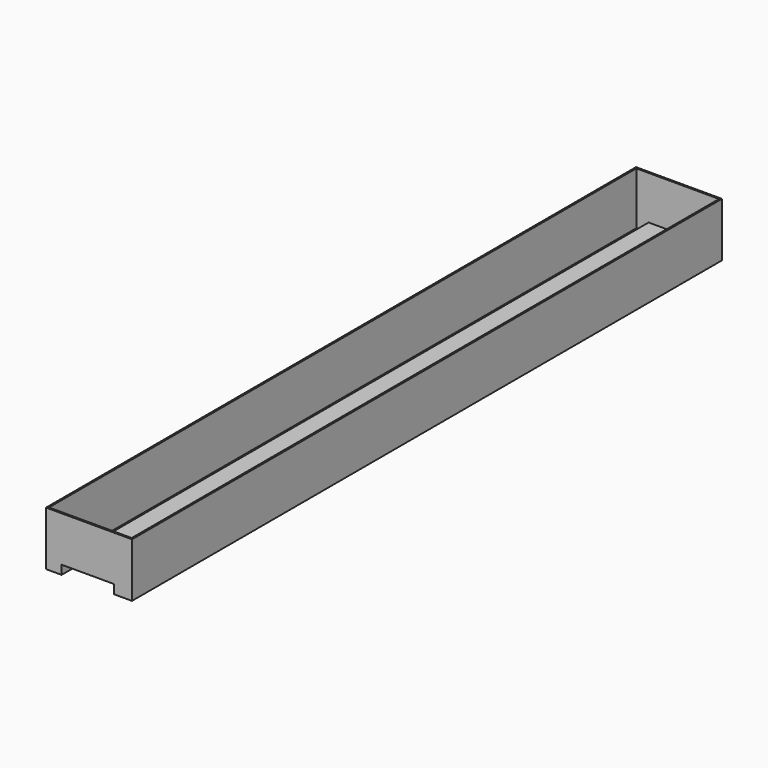
from build123d import *

# Parameters (mm, degrees)
F0_W     = 24.1608545184
F0_H     = 14.0407383442
F0_W_2   = 28.265745379
F1_DEPTH = 1150
F2_T     = -2.5


with BuildPart() as f1:
    # F0 (on Front) → F1 (new body)
    with BuildSketch(Plane.XZ):
        Polygon((-49.6395677328, 42.5944775343), (-49.6395677328, 14.0407383442), (-25.4787132144, 14.0407383442), (27.8118383139, 14.0407383442), (56.077583693, 14.0407383442), (84.343329072, 14.0407383442), (84.343329072, 84.5464840531), (-49.6395677328, 84.5464840531), align=None)
        with Locations((-37.5591404736, 7.0203691721)):
            Rectangle(F0_W, F0_H)
        with Locations((70.2104563825, 7.0203691721)):
            Rectangle(F0_W_2, F0_H)
    extrude(amount=F1_DEPTH)

    # F2
    f2_openings = [f1.faces().sort_by_distance(p)[0] for p in [
        (17.351881, -575, 84.546484),
    ]]
    offset(amount=F2_T, openings=f2_openings, kind=Kind.INTERSECTION)


solid = f1.part
